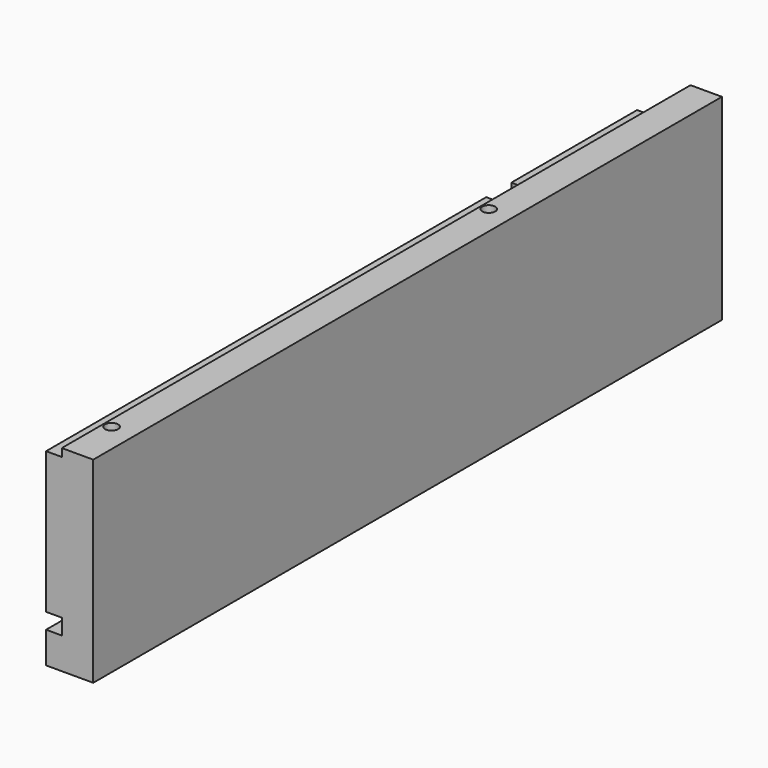
from build123d import *

# Parameters (mm, degrees)
SKETCH025_W             = 75
SKETCH025_H             = 300
PAD008_DEPTH            = 18
SKETCH026_W             = 75
SKETCH026_H             = 18
SKETCH026_W_2           = 57
SKETCH026_H_2           = 12
POCKET017_DEPTH         = 6
SKETCH027_W             = 6
SKETCH027_H             = 6
SKETCH027_W_2           = 3
POCKET018_DEPTH         = 300
SKETCH032_R             = 2.5
POCKET021_DEPTH         = 75
BODY009_PLACEMENT_ANGLE = 90


with BuildPart() as part:
    # Sketch025 → Pad008 (new body)
    with BuildSketch(Plane.XY):
        with Locations((37.5, 150)):
            Rectangle(SKETCH025_W, SKETCH025_H)
    extrude(amount=PAD008_DEPTH)

    # Sketch026 → Pocket017 (cut)
    with BuildSketch(Plane.XY.offset(18)):
        with Locations((37.5, 291)):
            Rectangle(SKETCH026_W, SKETCH026_H)
        with Locations((46.5, 216)):
            Rectangle(SKETCH026_W_2, SKETCH026_H_2)
    extrude(amount=-POCKET017_DEPTH, mode=Mode.SUBTRACT)

    # Sketch027 → Pocket018 (cut)
    with BuildSketch(Plane.XZ):
        with Locations((15, 15)):
            Rectangle(SKETCH027_W, SKETCH027_H)
        with Locations((73.5, 15)):
            Rectangle(SKETCH027_W_2, SKETCH027_H)
    extrude(amount=-POCKET018_DEPTH, mode=Mode.SUBTRACT)

    # Sketch032 → Pocket021 (cut)
    with BuildSketch(Plane.YZ.offset(75)):
        with Locations((20, 9)):
            Circle(SKETCH032_R)
        with Locations((200, 9)):
            Circle(SKETCH032_R)
    extrude(amount=-POCKET021_DEPTH, mode=Mode.SUBTRACT)


with BuildPart() as part_1:
    # Body009 placement: moved
    add(part.part.moved(Location((131, 0, 0))).rotate(Axis((131, 0, 0), (0, -1, 0)), BODY009_PLACEMENT_ANGLE))


solid = part_1.part
